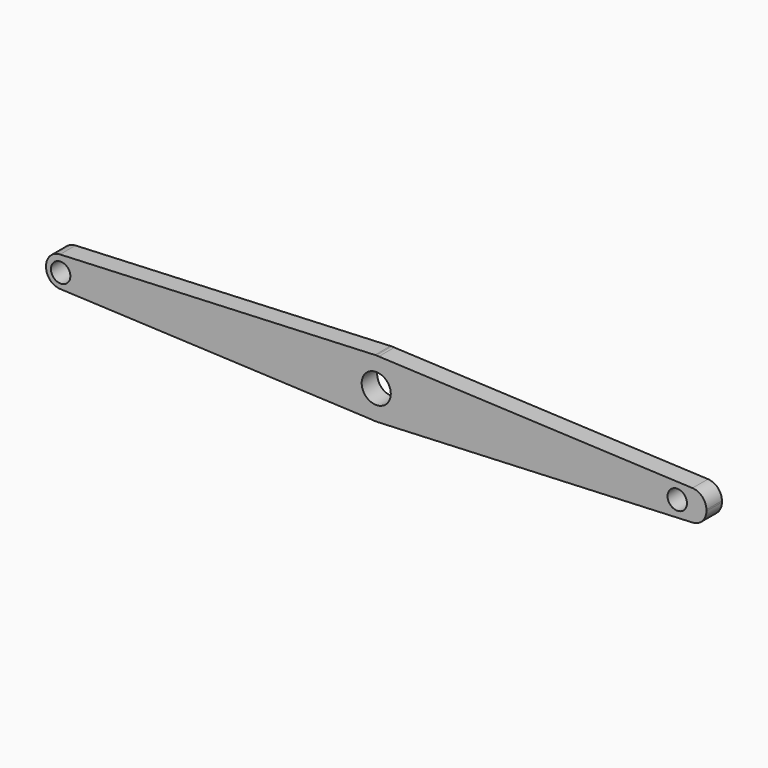
from build123d import *

# Parameters (mm, degrees)
F1_DEPTH = 2.54
F2_R     = 1.905
F3_R     = 1.905
F3_R_2   = 1.27
F4_DEPTH = 2.541


with BuildPart() as f1:
    # F0 (on Front) → F1 (new body)
    with BuildSketch(Plane.XZ):
        with BuildLine():
            Line((0.335523, 3.795197), (0, 3.81))
            ThreePointArc((0, 3.81), (-0.084147, 3.809071), (-0.168252, 3.806283))
            ThreePointArc((-0.168252, 3.806283), (-3.806341, 0.166949), (-0.500857, -3.776936))
            Line((-0.500857, -3.776936), (0.168252, -3.806283))
            ThreePointArc((0.168252, -3.806283), (2.75292, -2.633919), (3.81, 0))
            ThreePointArc((3.81, 0), (2.8102, 2.572718), (0.335523, 3.795197))
        make_face()
        with BuildLine():
            ThreePointArc((0.335523, 3.795197), (0.167925, 3.806298), (0, 3.81))
            Line((0, 3.81), (0.335523, 3.795197))
        make_face()
        with BuildLine():
            ThreePointArc((-0.500857, -3.776936), (-3.806341, 0.166949), (-0.168252, 3.806283))
            Line((-0.168252, 3.806283), (-43.18, 1.905))
            Line((-43.18, 1.905), (-43.18, -1.905))
            Line((-43.18, -1.905), (-0.500857, -3.776936))
        make_face()
        with BuildLine():
            Line((43.18, 1.905), (0.335523, 3.795197))
            ThreePointArc((0.335523, 3.795197), (2.8102, 2.572718), (3.81, 0))
            ThreePointArc((3.81, 0), (2.75292, -2.633919), (0.168252, -3.806283))
            Line((0.168252, -3.806283), (43.18, -1.905))
            Line((43.18, -1.905), (43.18, 1.905))
        make_face()
        with BuildLine():
            Line((0.168252, -3.806283), (-0.500857, -3.776936))
            ThreePointArc((-0.500857, -3.776936), (-0.166949, -3.806341), (0.168252, -3.806283))
        make_face()
    extrude(amount=F1_DEPTH)

    # F2
    f2_edges = [f1.edges().sort_by_distance(p)[0] for p in [
        (43.18, -1.27, -1.905),
        (43.18, -1.27, 1.905),
        (-43.18, -1.27, 1.905),
        (-43.18, -1.27, -1.905),
    ]]
    fillet(f2_edges, radius=F2_R)

    # F3 (on face) → F4 (cut, through all)
    with BuildSketch(Plane.XZ.offset(2.54)):
        Circle(F3_R)
        with Locations((39.37, 0)):
            Circle(F3_R_2)
        with Locations((-41.275, -0.081723)):
            Circle(F3_R_2)
    extrude(amount=-F4_DEPTH, mode=Mode.SUBTRACT)


solid = f1.part
